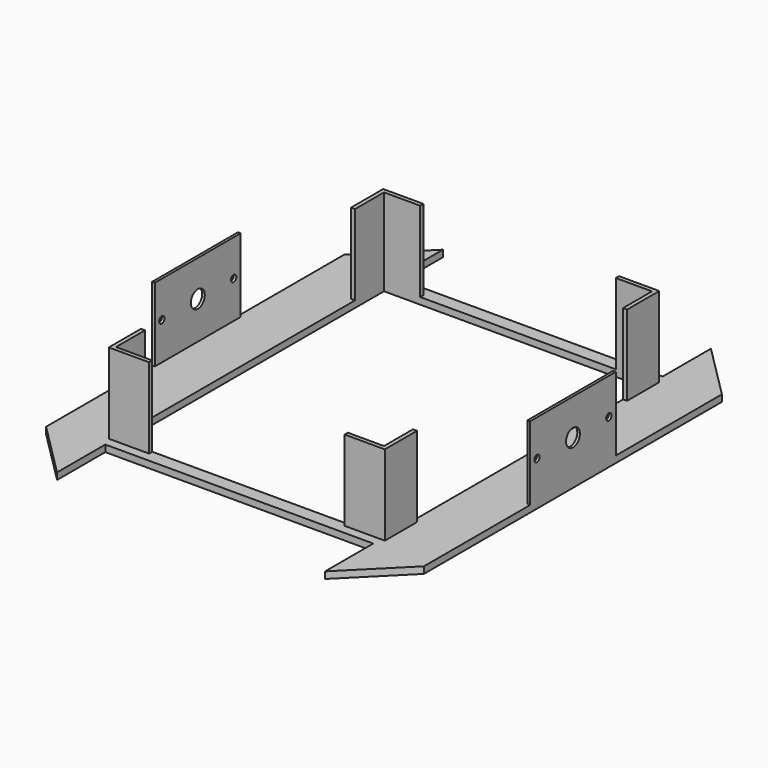
from build123d import *

# Parameters (mm, degrees)
SKETCH_W        = 200
SKETCH_H        = 250
PAD_DEPTH       = 2.5
SKETCH001_W     = 2
SKETCH001_H     = 80
PAD001_DEPTH    = 55
SKETCH002_R     = 2.5
SKETCH002_R_2   = 6.5
POCKET_DEPTH    = 282.001
PAD002_DEPTH    = 60
POCKET001_DEPTH = 5.001


with BuildPart() as part:
    # Sketch → Pad (new body, symmetric)
    with BuildSketch(Plane.XY):
        Polygon((100, 180), (141, 180), (141, -180), (100, -180), (100, -135), (-100, -135), (-100, -180), (-141, -180), (-141, 180), (-100, 180), (-100, 135), (100, 135), align=None)
        Rectangle(SKETCH_W, SKETCH_H, mode=Mode.SUBTRACT)
    extrude(amount=PAD_DEPTH, both=True)

    # Sketch001 → Pad001 (new body)
    with BuildSketch(Plane.XY.offset(2.5)):
        with Locations((-140, 0)):
            Rectangle(SKETCH001_W, SKETCH001_H)
        with Locations((140, 0)):
            Rectangle(SKETCH001_W, SKETCH001_H)
    extrude(amount=PAD001_DEPTH)

    # Sketch002 → Pocket (cut, through all)
    with BuildSketch(Plane(origin=(-141, 0, 0), x_dir=(0, -1, 0), z_dir=(-1, 0, 0))):
        with Locations((-33.5, 30.5)):
            Circle(SKETCH002_R)
        with Locations((33.5, 30.5)):
            Circle(SKETCH002_R)
        with Locations((-0.051525, 30.52907)):
            Circle(SKETCH002_R_2)
    extrude(amount=-POCKET_DEPTH, mode=Mode.SUBTRACT)

    # Sketch003 → Pad002 (new body)
    with BuildSketch(Plane.XY.offset(2.5)):
        Polygon((-100, 98), (-103, 98), (-103, 128), (-73, 128), (-73, 125), (-100, 125), align=None)
        Polygon((73, 125), (100, 125), (100, 98), (103, 98), (103, 128), (73, 128), align=None)
        Polygon((-73, -125), (-100, -125), (-100, -98), (-103, -98), (-103, -128), (-73, -128), align=None)
        Polygon((73, -125), (100, -125), (100, -98), (103, -98), (103, -128), (73, -128), align=None)
    extrude(amount=PAD002_DEPTH)

    # Sketch004 → Pocket001 (cut, through all)
    with BuildSketch(Plane.XY.offset(2.5)):
        Polygon((-100, 180), (-154.538937, 125.461063), (-154.538937, 180), align=None)
        Polygon((100, 180), (154.538937, 125.461063), (154.538937, 180), align=None)
        Polygon((-100, -180), (-154.538937, -125.461063), (-154.538937, -180), align=None)
        Polygon((100, -180), (154.538937, -125.461063), (154.538937, -180), align=None)
    extrude(amount=-POCKET001_DEPTH, mode=Mode.SUBTRACT)


solid = part.part
